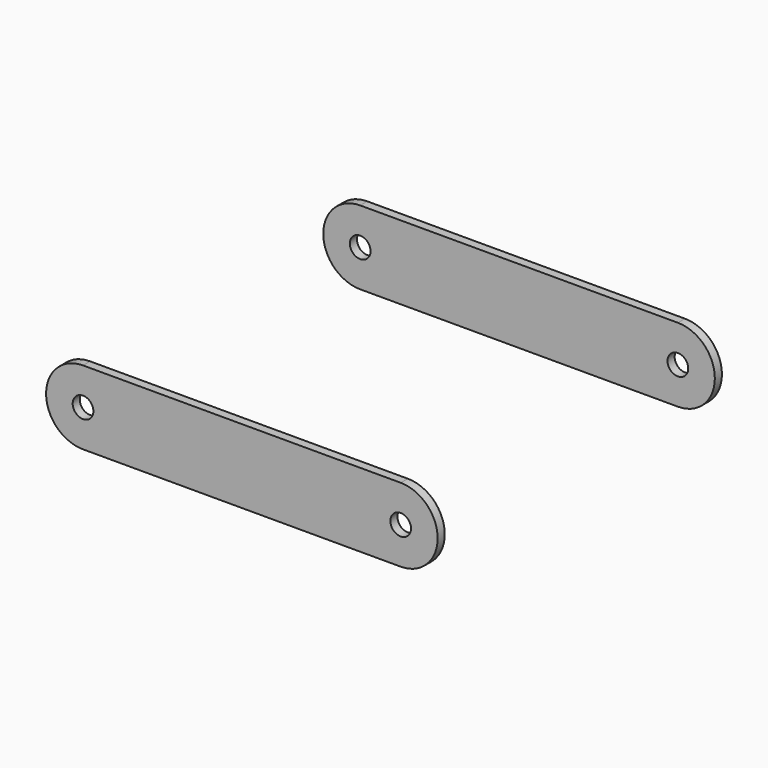
from build123d import *

# Parameters (mm, degrees)
SKETCH040_R  = 7
PAD004_DEPTH = 6


with BuildPart() as body003:
    # Sketch040 → Pad004 (new body)
    with BuildSketch(Plane.XZ):
        with BuildLine():
            Line((0, 25), (215, 25))
            ThreePointArc((215, -25), (240, 0), (215, 25))
            Line((215, -25), (0, -25))
            ThreePointArc((0, 25), (-25, 0), (0, -25))
        make_face()
        Circle(SKETCH040_R, mode=Mode.SUBTRACT)
        with Locations((215, 0)):
            Circle(SKETCH040_R, mode=Mode.SUBTRACT)
    extrude(amount=PAD004_DEPTH)


with BuildPart() as body003_1:
    # Body003 placement: moved
    add(body003.part.moved(Location((0, -114.25, 0))))


with BuildPart() as linkplate:
    # Mirror001: instance of Body003
    add(body003_1.part.mirror(Plane(origin=(-500, 0, 0), x_dir=(-1, 0, 0), z_dir=(0, -1, 0))))

    # Fusion015: union Body003
    add(body003_1.part)


solid = linkplate.part
